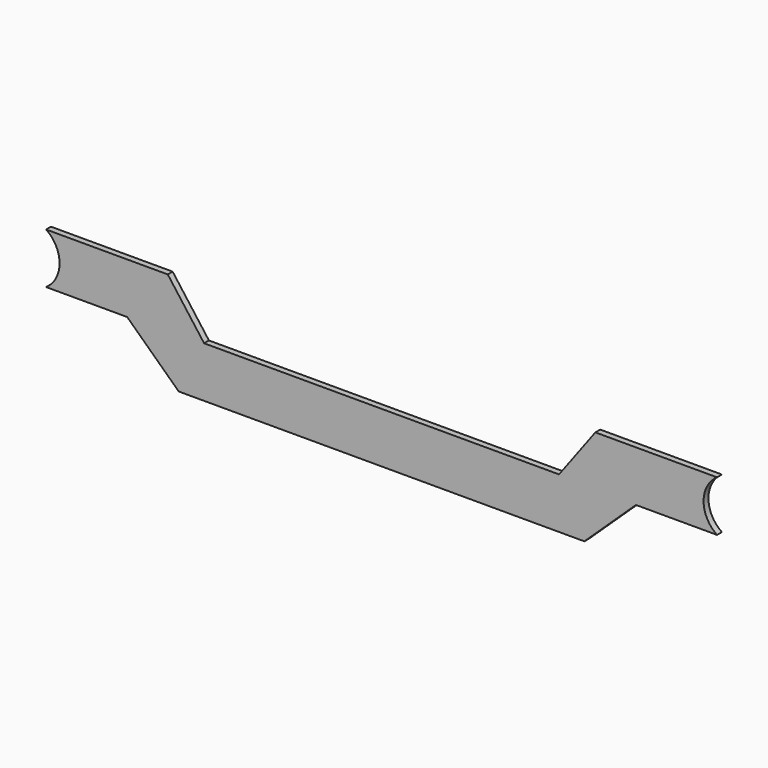
from build123d import *

# Parameters (mm, degrees)
F1_DEPTH = 6


with BuildPart() as f1:
    # F0 (on Front) → F1 (new body)
    with BuildSketch(Plane.XZ):
        with BuildLine():
            Line((-250.833333, 48.124549), (-200, 0))
            Line((-200, 0), (200, 0))
            Line((200, 0), (250.833333, 48.124549))
            Line((250.833333, 48.124549), (330.833333, 48.124549))
            ThreePointArc((330.833333, 48.124549), (317.5363, 73.124549), (330.833333, 98.124549))
            Line((330.833333, 98.124549), (210.833333, 98.124549))
            Line((210.833333, 98.124549), (175, 50))
            Line((175, 50), (-175, 50))
            Line((-175, 50), (-210.833333, 98.124549))
            Line((-210.833333, 98.124549), (-330.833333, 98.124549))
            ThreePointArc((-330.833333, 98.124549), (-321.067327, 87.282684), (-317.5363, 73.124549))
            ThreePointArc((-317.5363, 73.124549), (-321.067327, 58.966415), (-330.833333, 48.124549))
            Line((-330.833333, 48.124549), (-250.833333, 48.124549))
        make_face()
    extrude(amount=F1_DEPTH)


solid = f1.part
